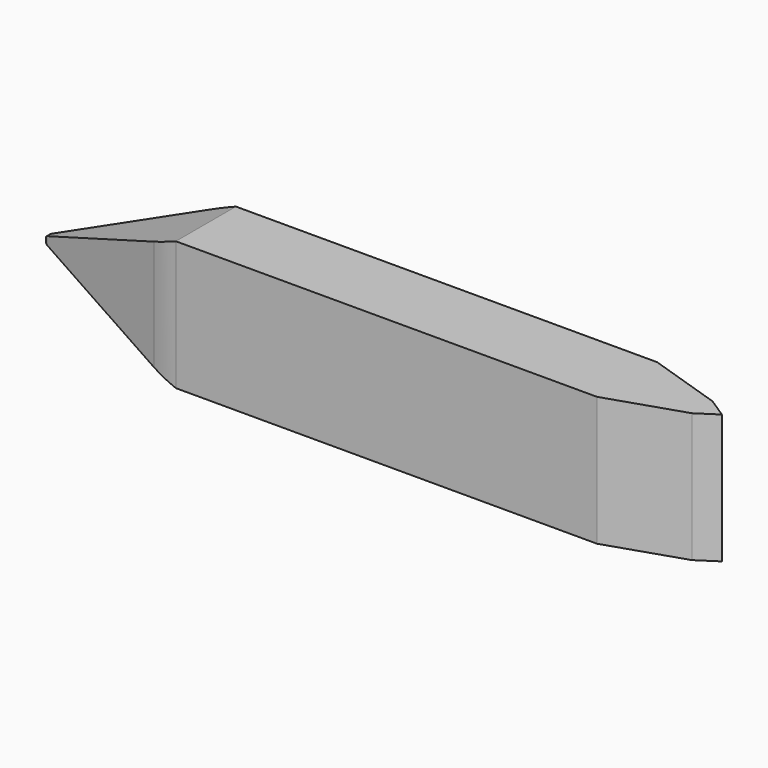
from build123d import *

# Parameters (mm, degrees)
F1_DEPTH = 25
F3_DEPTH = 14.524811


with BuildPart() as f1:
    # F0 (on Top) → F1 (new body)
    with BuildSketch(Plane.XY):
        with BuildLine():
            Line((56.428571, 2.5), (41.904763, 7.261906))
            Line((41.904763, 7.261906), (-39.518585, 7.261906))
            ThreePointArc((-39.518585, 7.261906), (-41.887959, 7.121061), (-44.223962, 6.700512))
            Line((-44.223962, 6.700512), (-69.89717, 0.485965))
            ThreePointArc((-69.89717, 0.485965), (-70.279535, 0), (-69.89717, -0.485965))
            Line((-69.89717, -0.485965), (-44.223962, -6.700512))
            ThreePointArc((-44.223962, -6.700512), (-41.887959, -7.121061), (-39.518585, -7.261906))
            Line((-39.518585, -7.261906), (41.904763, -7.261906))
            Line((41.904763, -7.261906), (56.428571, -2.5))
            Line((56.428571, -2.5), (60.23809, 0))
            Line((60.23809, 0), (56.428571, 2.5))
        make_face()
    extrude(amount=F1_DEPTH)

    # F2 (on face) → F3 (cut, through all)
    with BuildSketch(Plane.XZ.offset(7.261906)):
        with BuildLine():
            Line((-69.757227, 13.292665), (-39.518585, 25))
            Line((-39.518585, 25), (-72.551064, 25))
            Line((-72.551064, 25), (-72.551064, 0))
            Line((-72.551064, 0), (-39.518585, 0))
            Line((-39.518585, 0), (-69.757227, 11.707335))
            ThreePointArc((-69.757227, 11.707335), (-70.300335, 12.5), (-69.757227, 13.292665))
        make_face()
    extrude(amount=-F3_DEPTH, mode=Mode.SUBTRACT)


solid = f1.part
